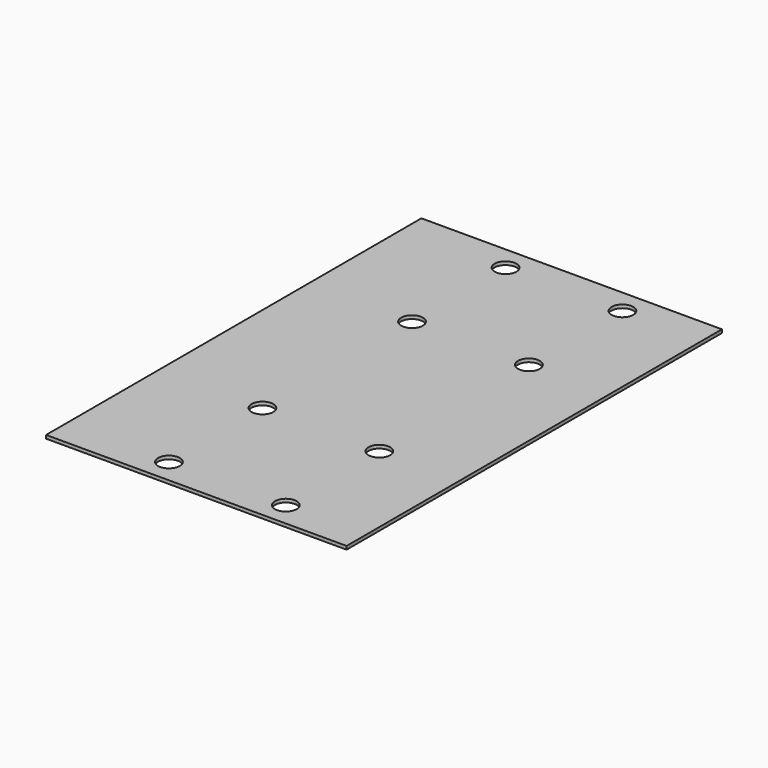
from build123d import *

# Parameters (mm, degrees)
F0_W     = 90
F0_H     = 140.5
F0_R     = 3.25
F1_DEPTH = 1


with BuildPart() as f1:
    # F0 (on Top) → F1 (new body)
    with BuildSketch(Plane.XY):
        with Locations((-8.236936, 59.42832)):
            Rectangle(F0_W, F0_H)
        with Locations((-22.236936, -3.57168)):
            Circle(F0_R, mode=Mode.SUBTRACT)
        with Locations((-22.236936, 31.42832)):
            Circle(F0_R, mode=Mode.SUBTRACT)
        with Locations((12.763064, -3.57168)):
            Circle(F0_R, mode=Mode.SUBTRACT)
        with Locations((12.763064, 31.42832)):
            Circle(F0_R, mode=Mode.SUBTRACT)
        with Locations((-22.236936, 87.42832)):
            Circle(F0_R, mode=Mode.SUBTRACT)
        with Locations((-22.236936, 122.42832)):
            Circle(F0_R, mode=Mode.SUBTRACT)
        with Locations((12.763064, 87.42832)):
            Circle(F0_R, mode=Mode.SUBTRACT)
        with Locations((12.763064, 122.42832)):
            Circle(F0_R, mode=Mode.SUBTRACT)
    extrude(amount=F1_DEPTH)


solid = f1.part
